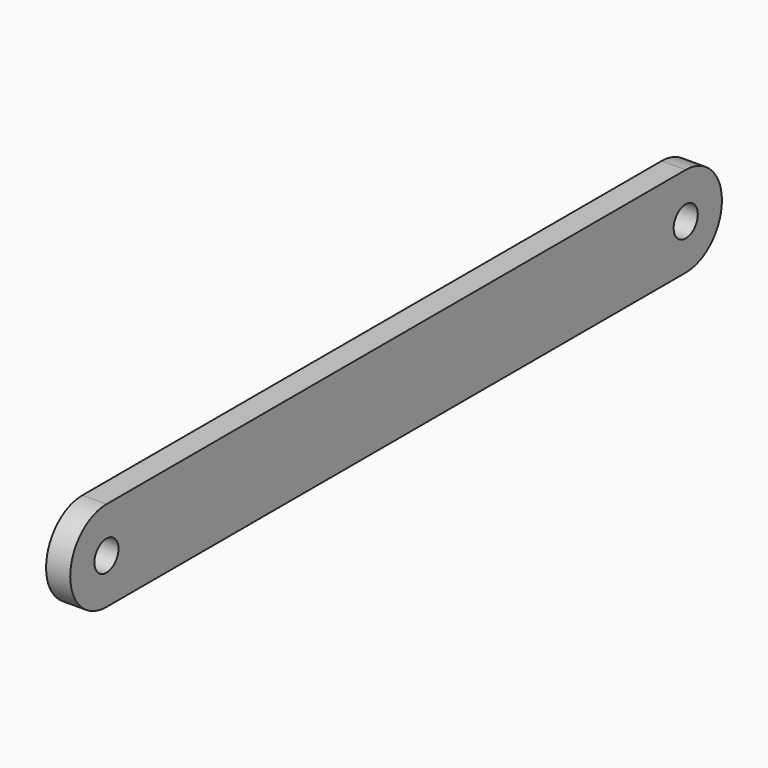
from build123d import *

# Parameters (mm, degrees)
F0_R     = 1.5875
F1_DEPTH = 2.54


with BuildPart() as f1:
    # F0 (on Right) → F1 (new body)
    with BuildSketch(Plane.YZ):
        with BuildLine():
            ThreePointArc((0, -4.7625), (4.7625, 0), (0, 4.7625))
            Line((0, 4.7625), (-76.2, 4.7625))
            ThreePointArc((-76.2, 4.7625), (-80.9625, 0), (-76.2, -4.7625))
            Line((-76.2, -4.7625), (0, -4.7625))
        make_face()
        with Locations((-76.2, 0)):
            Circle(F0_R, mode=Mode.SUBTRACT)
        Circle(F0_R, mode=Mode.SUBTRACT)
    extrude(amount=F1_DEPTH)


solid = f1.part
